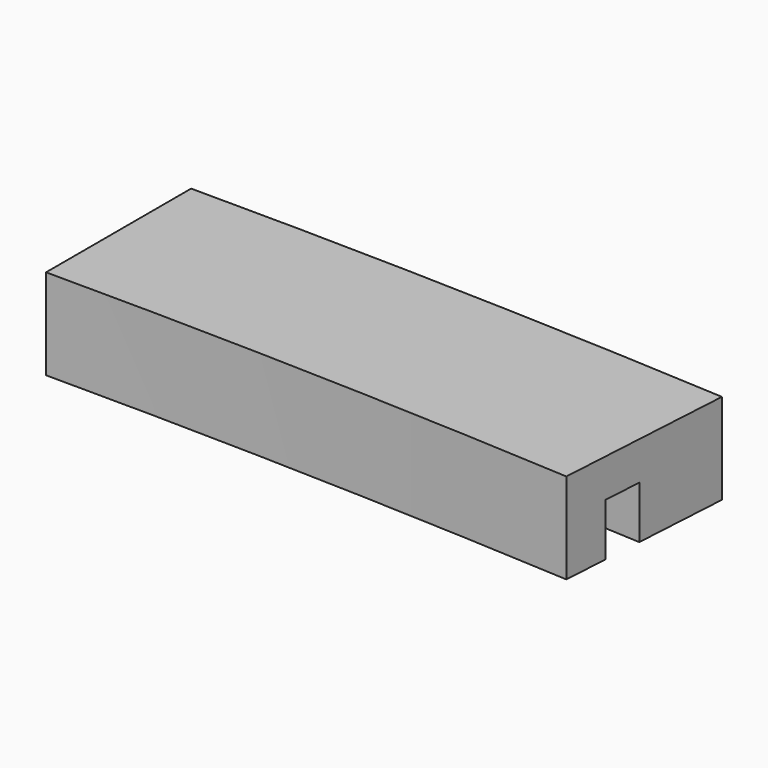
from build123d import *

# Parameters (mm, degrees)
F1_DEPTH = 203.2
F2_W     = 88.9
F2_H     = 117.475


with BuildPart() as f1:
    # F0 (on Top) → F1 (new body)
    with BuildSketch(Plane.XY):
        with BuildLine():
            Line((1194.4176857661, 20132.1994861945), (1218.4865560082, 20537.8861257148))
            ThreePointArc((1218.4865560082, 20537.8861257148), (609.5108077566, 20564.9695495818), (0, 20574))
            Line((0, 20574), (0, 20167.6))
            ThreePointArc((0, 20167.6), (597.4710880973, 20158.7479288493), (1194.4176857661, 20132.1994861945))
        make_face()
    extrude(amount=F1_DEPTH)

    # F4: sweep along a path in F3
    with BuildLine(Plane.XY) as f4_path:
        ThreePointArc((1200.4349033266, 20233.6211460746), (600.4810180121, 20260.3033340325), (0, 20269.2))
    # F2 (on face) → F4 (sweep, cut)
    with BuildSketch(Plane(origin=(0, 0, 0), x_dir=(0.0592245823, 0.9982446839, 0), z_dir=(0.9982446839, -0.0592245823, 0))):
        with Locations((20313.65, 58.7375)):
            Rectangle(F2_W, F2_H)
    sweep(path=f4_path.line, mode=Mode.SUBTRACT)


solid = f1.part
